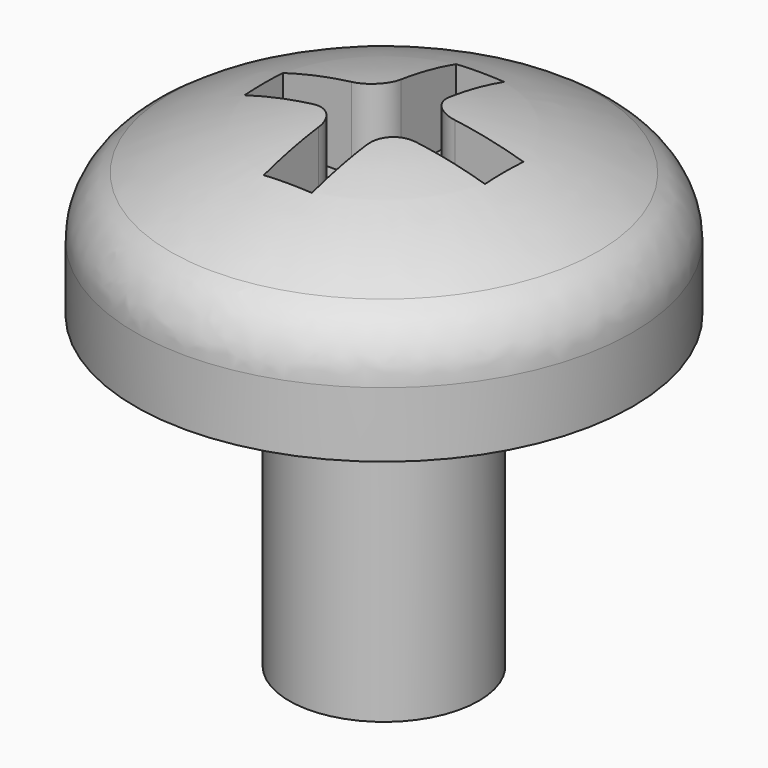
from build123d import *

# Parameters (mm, degrees)
F0_R     = 1.7526
F1_DEPTH = 5.715
F4_R     = 1.27
F7_DEPTH = 2.921
F8_R     = 0.508


with BuildPart() as f1:
    # F0 (on Top) → F1 (new body)
    with BuildSketch(Plane.XY):
        Circle(F0_R)
    extrude(amount=F1_DEPTH)

    # F2 (on Right) → F3 (revolve)
    with BuildSketch(Plane.YZ):
        with BuildLine():
            Line((-4.5974, 7.62), (-4.5974, 5.715))
            Line((-4.5974, 5.715), (0, 5.715))
            Line((0, 5.715), (0, 9.0932))
            ThreePointArc((0, 9.0932), (-2.4088, 8.700189), (-4.5974, 7.62))
        make_face()
    revolve(axis=Axis((0, 0, 4.5466), (0, 0, 1)))

    # F4
    f4_edges = [f1.edges().sort_by_distance(p)[0] for p in [
        (0, 4.5974, 7.62),
    ]]
    fillet(f4_edges, radius=F4_R)

    # F6 (on offset) → F7 (cut)
    with BuildSketch(Plane.XY.offset(10.414)):
        Polygon((-2.2225, 0.4445), (-2.2225, -0.4445), (-0.4445, -0.4445), (-0.4445, -2.2225), (0.4445, -2.2225), (0.4445, -0.4445), (2.2225, -0.4445), (2.2225, 0.4445), (0.4445, 0.4445), (0.4445, 2.2225), (-0.4445, 2.2225), (-0.4445, 0.4445), align=None)
    extrude(amount=-F7_DEPTH, mode=Mode.SUBTRACT)

    # F8
    f8_edges = [f1.edges().sort_by_distance(p)[0] for p in [
        (-0.4445, 0.4445, 8.276901),
        (0.4445, 0.4445, 8.276901),
        (-0.4445, -0.4445, 8.276901),
        (0.4445, -0.4445, 8.276901),
    ]]
    fillet(f8_edges, radius=F8_R)


solid = f1.part
